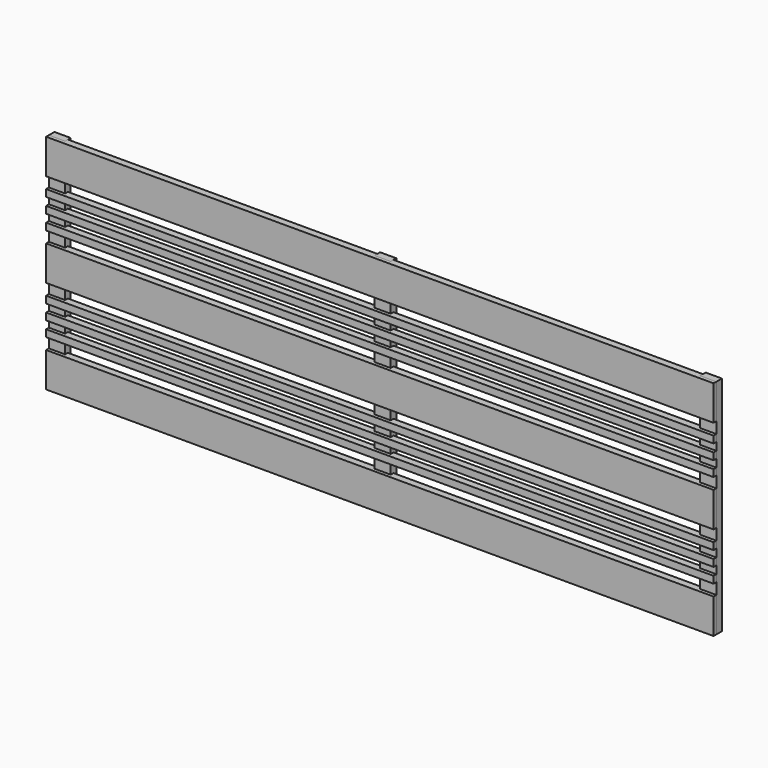
from build123d import *

# Parameters (mm, degrees)
F0_W     = 1695.45
F0_H     = 190.5
F0_W_2   = 88.9
F1_DEPTH = 38.1
F0_H_2   = 38.1
F2_W     = 88.9
F2_H     = 1219.2
F3_DEPTH = 19.05
F2_H_2   = 514.35
F2_H_3   = 190.5


with BuildPart() as f1:
    # F0 (on Front) → F1 (new body)
    with BuildSketch(Plane.XZ):
        with Locations((-892.175, 514.35)):
            Rectangle(F0_W, F0_H)
        with Locations((0, 514.35)):
            Rectangle(F0_W_2, F0_H)
        with Locations((892.175, 514.35)):
            Rectangle(F0_W, F0_H)
        with Locations((1784.35, 514.35)):
            Rectangle(F0_W_2, F0_H)
        with Locations((-1784.35, 514.35)):
            Rectangle(F0_W_2, F0_H)
    extrude(amount=F1_DEPTH)


with BuildPart() as f1b:
    # F0 (on Front) → F1, piece 2 (new body)
    with BuildSketch(Plane.XZ):
        with Locations((-892.175, 0)):
            Rectangle(F0_W, F0_H)
        Rectangle(F0_W_2, F0_H)
        with Locations((892.175, 0)):
            Rectangle(F0_W, F0_H)
        with Locations((1784.35, 0)):
            Rectangle(F0_W_2, F0_H)
        with Locations((-1784.35, 0)):
            Rectangle(F0_W_2, F0_H)
    extrude(amount=F1_DEPTH)


with BuildPart() as f1c:
    # F0 (on Front) → F1, piece 3 (new body)
    with BuildSketch(Plane.XZ):
        with Locations((-1784.35, -338.1375)):
            Rectangle(F0_W_2, F0_H_2)
        with Locations((-892.175, -338.1375)):
            Rectangle(F0_W, F0_H_2)
        with Locations((892.175, -338.1375)):
            Rectangle(F0_W, F0_H_2)
        with Locations((0, -338.1375)):
            Rectangle(F0_W_2, F0_H_2)
        with Locations((1784.35, -338.1375)):
            Rectangle(F0_W_2, F0_H_2)
    extrude(amount=F1_DEPTH)


with BuildPart() as f1d:
    # F0 (on Front) → F1, piece 4 (new body)
    with BuildSketch(Plane.XZ):
        with Locations((1784.35, -514.35)):
            Rectangle(F0_W_2, F0_H)
        with Locations((892.175, -514.35)):
            Rectangle(F0_W, F0_H)
        with Locations((0, -514.35)):
            Rectangle(F0_W_2, F0_H)
        with Locations((-892.175, -514.35)):
            Rectangle(F0_W, F0_H)
        with Locations((-1784.35, -514.35)):
            Rectangle(F0_W_2, F0_H)
    extrude(amount=F1_DEPTH)


with BuildPart() as f1e:
    # F0 (on Front) → F1, piece 5 (new body)
    with BuildSketch(Plane.XZ):
        with Locations((-1784.35, 338.1375)):
            Rectangle(F0_W_2, F0_H_2)
        with Locations((-892.175, 338.1375)):
            Rectangle(F0_W, F0_H_2)
        with Locations((0, 338.1375)):
            Rectangle(F0_W_2, F0_H_2)
        with Locations((1784.35, 338.1375)):
            Rectangle(F0_W_2, F0_H_2)
        with Locations((892.175, 338.1375)):
            Rectangle(F0_W, F0_H_2)
    extrude(amount=F1_DEPTH)


with BuildPart() as f1f:
    # F0 (on Front) → F1, piece 6 (new body)
    with BuildSketch(Plane.XZ):
        with Locations((1784.35, 176.2125)):
            Rectangle(F0_W_2, F0_H_2)
        with Locations((892.175, 176.2125)):
            Rectangle(F0_W, F0_H_2)
        with Locations((0, 176.2125)):
            Rectangle(F0_W_2, F0_H_2)
        with Locations((-892.175, 176.2125)):
            Rectangle(F0_W, F0_H_2)
        with Locations((-1784.35, 176.2125)):
            Rectangle(F0_W_2, F0_H_2)
    extrude(amount=F1_DEPTH)


with BuildPart() as f1g:
    # F0 (on Front) → F1, piece 7 (new body)
    with BuildSketch(Plane.XZ):
        with Locations((-892.175, -176.2125)):
            Rectangle(F0_W, F0_H_2)
        with Locations((-1784.35, -176.2125)):
            Rectangle(F0_W_2, F0_H_2)
        with Locations((0, -176.2125)):
            Rectangle(F0_W_2, F0_H_2)
        with Locations((892.175, -176.2125)):
            Rectangle(F0_W, F0_H_2)
        with Locations((1784.35, -176.2125)):
            Rectangle(F0_W_2, F0_H_2)
    extrude(amount=F1_DEPTH)


with BuildPart() as f1h:
    # F0 (on Front) → F1, piece 8 (new body)
    with BuildSketch(Plane.XZ):
        with Locations((1784.35, -257.175)):
            Rectangle(F0_W_2, F0_H_2)
        with Locations((892.175, -257.175)):
            Rectangle(F0_W, F0_H_2)
        with Locations((0, -257.175)):
            Rectangle(F0_W_2, F0_H_2)
        with Locations((-892.175, -257.175)):
            Rectangle(F0_W, F0_H_2)
        Polygon((-1828.8, -276.225), (-1739.9, -276.225), (-1739.9, -238.125), (-1828.8, -238.125), (-1828.8, -257.175), align=None)
    extrude(amount=F1_DEPTH)


with BuildPart() as f1i:
    # F0 (on Front) → F1, piece 9 (new body)
    with BuildSketch(Plane.XZ):
        with Locations((1784.35, 257.175)):
            Rectangle(F0_W_2, F0_H_2)
        with Locations((892.175, 257.175)):
            Rectangle(F0_W, F0_H_2)
        with Locations((0, 257.175)):
            Rectangle(F0_W_2, F0_H_2)
        with Locations((-892.175, 257.175)):
            Rectangle(F0_W, F0_H_2)
        Polygon((-1828.8, 238.125), (-1739.9, 238.125), (-1739.9, 276.225), (-1828.8, 276.225), (-1828.8, 257.175), align=None)
    extrude(amount=F1_DEPTH)


with BuildPart() as f3:
    # F2 (on face) → F3 (new body, symmetric)
    with BuildSketch(Plane.XZ):
        with Locations((-1784.35, 0)):
            Rectangle(F2_W, F2_H)
    extrude(amount=F3_DEPTH, both=True)


with BuildPart() as f3b:
    # F2 (on face) → F3, piece 2 (new body, symmetric)
    with BuildSketch(Plane.XZ):
        with Locations((1784.35, 0)):
            Rectangle(F2_W, F2_H)
    extrude(amount=F3_DEPTH, both=True)


with BuildPart() as f3c:
    # F2 (on face) → F3, piece 3 (new body, symmetric)
    with BuildSketch(Plane.XZ):
        with Locations((0, -352.425)):
            Rectangle(F2_W, F2_H_2)
        with Locations((0, 352.425)):
            Rectangle(F2_W, F2_H_2)
        Rectangle(F2_W, F2_H_3)
    extrude(amount=F3_DEPTH, both=True)


solid = Compound([f1.part, f1b.part, f1c.part, f1d.part, f1e.part, f1f.part, f1g.part, f1h.part, f1i.part, f3.part, f3b.part, f3c.part])
